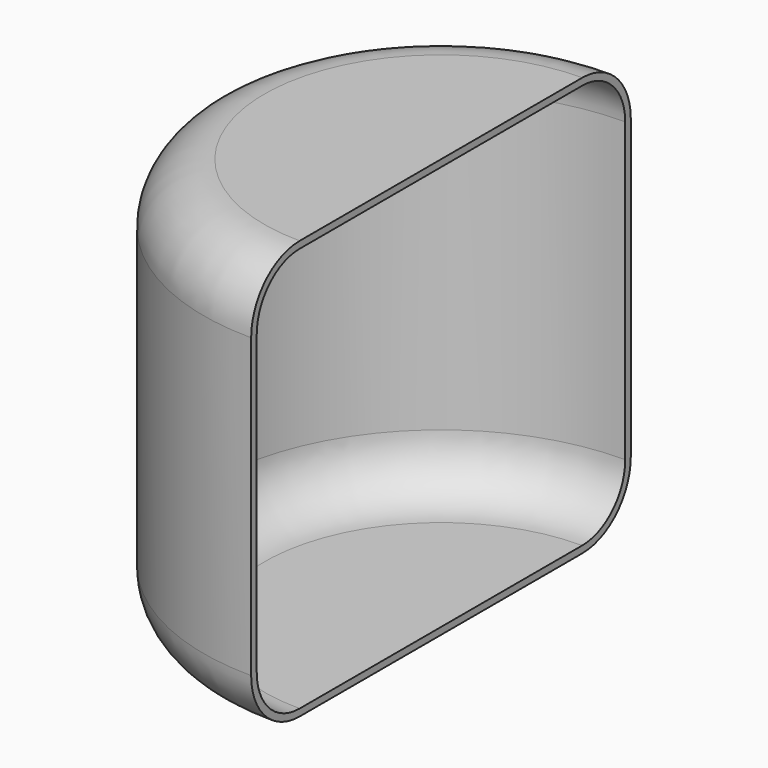
from build123d import *

# Parameters (mm, degrees)
F1_DEPTH = 381
F2_R     = 55.1942
F3_R     = 55.1942
F4_T     = -6.35


with BuildPart() as f1:
    # F0 (on Top) → F1 (new body)
    with BuildSketch(Plane.XY):
        with BuildLine():
            Line((0, -215.9), (0, 215.9))
            ThreePointArc((0, 215.9), (-215.9, 0), (0, -215.9))
        make_face()
    extrude(amount=F1_DEPTH)

    # F2
    f2_edges = [f1.edges().sort_by_distance(p)[0] for p in [
        (-215.9, 0, 381),
    ]]
    fillet(f2_edges, radius=F2_R)

    # F3
    f3_edges = [f1.edges().sort_by_distance(p)[0] for p in [
        (-215.9, 0, 0),
    ]]
    fillet(f3_edges, radius=F3_R)

    # F4
    f4_openings = [f1.faces().sort_by_distance(p)[0] for p in [
        (0, 0, 190.5),
    ]]
    offset(amount=F4_T, openings=f4_openings)


solid = f1.part
